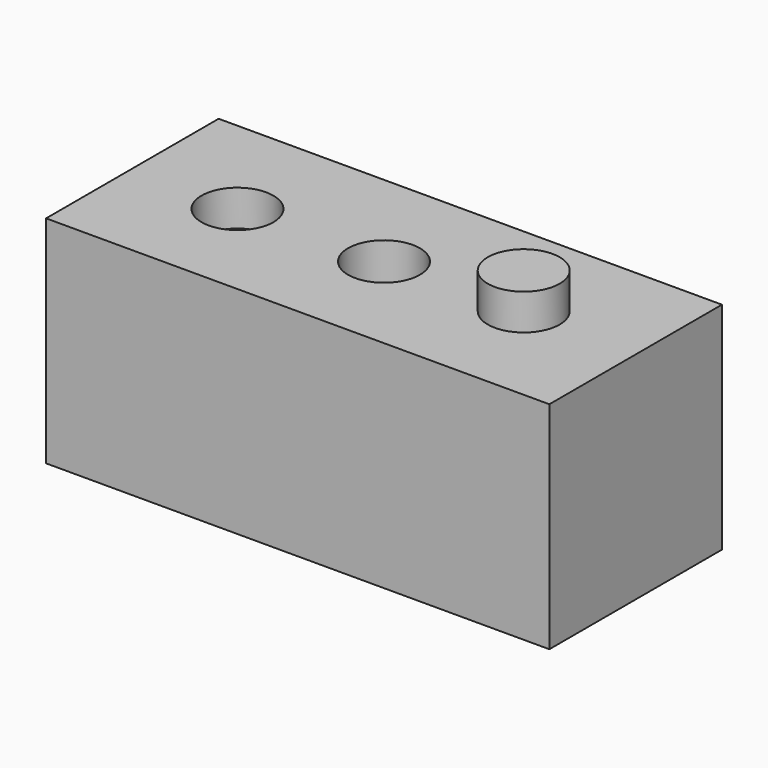
from build123d import *

# Parameters (mm, degrees)
F0_W     = 140
F0_H     = 60
F1_DEPTH = 60
F5_R     = 10
F6_DEPTH = 10
F4_R     = 10
F7_DEPTH = 105.8
F3_R     = 10
F8_DEPTH = 10


with BuildPart() as f1:
    # F0 (on Top) → F1 (new body)
    with BuildSketch(Plane.XY):
        Rectangle(F0_W, F0_H)
    extrude(amount=F1_DEPTH)

    # F5 (on face) → F6 (join)
    with BuildSketch(Plane.XY.offset(60)):
        with Locations((38.326033, 0.678791)):
            Circle(F5_R)
    extrude(amount=F6_DEPTH)

    # F4 (on face) → F7 (cut)
    with BuildSketch(Plane.XY.offset(60)):
        Circle(F4_R)
    extrude(amount=-F7_DEPTH, mode=Mode.SUBTRACT)

    # F3 (on face) → F8 (cut)
    with BuildSketch(Plane.XY.offset(60)):
        with Locations((-40.310896, -0.563292)):
            Circle(F3_R)
    extrude(amount=-F8_DEPTH, mode=Mode.SUBTRACT)


solid = f1.part
